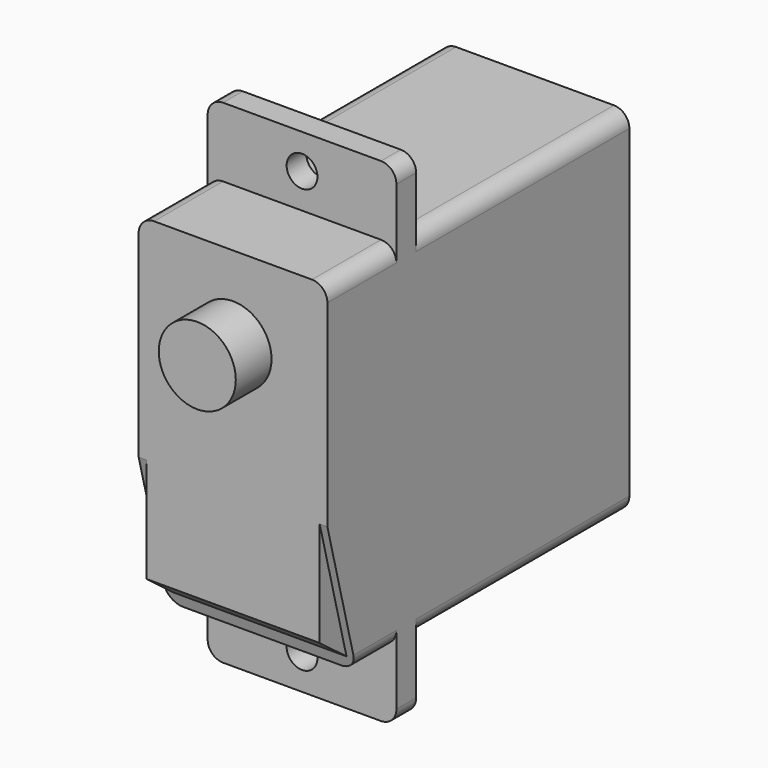
from build123d import *

# Parameters (mm, degrees)
F1_DEPTH = 12.25
F5_DEPTH = 11.25
F6_R     = 2.5
F7_DEPTH = 2.9
F8_R     = 1
F9_DEPTH = 18.901
F10_R    = 1


with BuildPart() as f1:
    # F0 (on Right) → F1 (new body)
    with BuildSketch(Plane.YZ):
        Polygon((-5.05, -11.5), (12.25, -11.5), (12.25, 11.5), (-5.05, 11.5), (-5.05, 16), (-6.65, 16), (-6.65, 11.5), (-12.25, 11.5), (-12.25, -2.3), (-9.8814561435, -11.5), (-6.65, -11.5), (-6.65, -16), (-5.05, -16), align=None)
    extrude(amount=F1_DEPTH)

    # F4 (on offset) → F5 (join, through all)
    with BuildSketch(Plane.YZ.offset(11.75)):
        Polygon((-10.0745439579, -10.75), (-12.25, -2.3), (-12.25, -9.1), align=None)
    extrude(amount=-F5_DEPTH)

    # F6 (on face) → F7 (join)
    with BuildSketch(Plane.XZ.offset(12.25)):
        with Locations((6.125, 6.1)):
            Circle(F6_R)
    extrude(amount=F7_DEPTH)

    # F8 (on face) → F9 (cut, through all)
    with BuildSketch(Plane.XZ.offset(6.65)):
        with Locations((6.125, 13.75)):
            Circle(F8_R)
        with Locations((6.125, -13.75)):
            Circle(F8_R)
    extrude(amount=-F9_DEPTH, mode=Mode.SUBTRACT)

    # F10
    f10_edges = [f1.edges().sort_by_distance(p)[0] for p in [
        (12.25, 3.6, 11.5),
        (12.25, -9.45, 11.5),
        (12.25, 3.6, -11.5),
        (12.25, -8.265728, -11.5),
        (0, -8.265728, -11.5),
        (0, 3.6, -11.5),
        (0, 3.6, 11.5),
        (0, -9.45, 11.5),
        (0, -5.85, 16),
        (12.25, -5.85, 16),
        (0, -5.85, -16),
        (12.25, -5.85, -16),
    ]]
    fillet(f10_edges, radius=F10_R)


solid = f1.part
